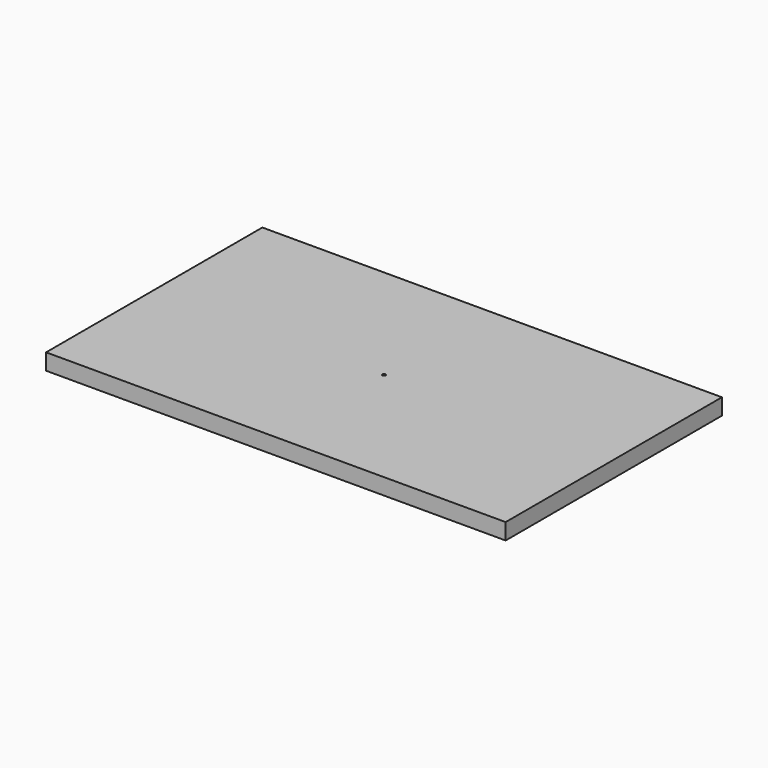
from build123d import *

# Parameters (mm, degrees)
F0_W      = 850
F0_H      = 500
F1_DEPTH  = 30
F2_R      = 3
F3_DEPTH  = 12
F4_R      = 3
F5_DEPTH  = 12
F6_R      = 3
F7_DEPTH  = 12
F8_R      = 3
F9_DEPTH  = 12
F10_R     = 3
F11_DEPTH = 12


with BuildPart() as f1:
    # F0 (on Top) → F1 (new body)
    with BuildSketch(Plane.XY):
        with Locations((425, 250)):
            Rectangle(F0_W, F0_H)
    extrude(amount=F1_DEPTH)

    # F2 (on face) → F3 (cut)
    with BuildSketch(Plane(origin=(0, 0, 0), x_dir=(1, 0, 0), z_dir=(0, 0, -1))):
        with Locations((835, -15)):
            Circle(F2_R)
    extrude(amount=-F3_DEPTH, mode=Mode.SUBTRACT)

    # F4 (on face) → F5 (cut)
    with BuildSketch(Plane(origin=(0, 0, 0), x_dir=(1, 0, 0), z_dir=(0, 0, -1))):
        with Locations((15, -15)):
            Circle(F4_R)
    extrude(amount=-F5_DEPTH, mode=Mode.SUBTRACT)

    # F6 (on face) → F7 (cut)
    with BuildSketch(Plane(origin=(0, 0, 0), x_dir=(1, 0, 0), z_dir=(0, 0, -1))):
        with Locations((350, -15)):
            Circle(F6_R)
    extrude(amount=-F7_DEPTH, mode=Mode.SUBTRACT)

    # F8 (on face) → F9 (cut)
    with BuildSketch(Plane.XY.offset(30)):
        with Locations((425, 250)):
            Circle(F8_R)
    extrude(amount=-F9_DEPTH, mode=Mode.SUBTRACT)

    # F10 (on face) → F11 (cut)
    with BuildSketch(Plane(origin=(0, 500, 0), x_dir=(-1, 0, 0), z_dir=(0, 1, 0))):
        with Locations((-835, 15)):
            Circle(F10_R)
    extrude(amount=-F11_DEPTH, mode=Mode.SUBTRACT)


solid = f1.part
